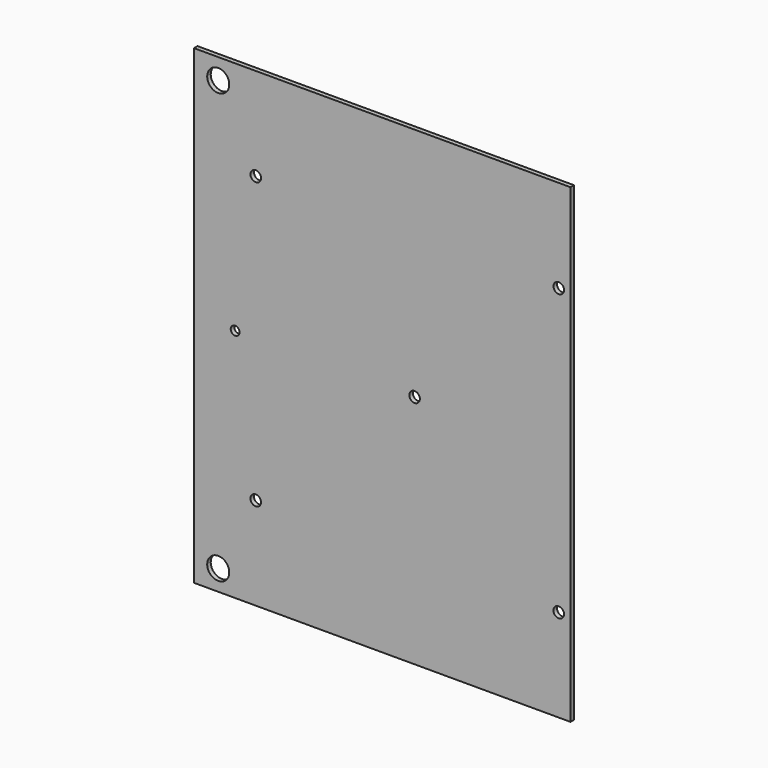
from build123d import *

# Parameters (mm, degrees)
F0_W     = 812.8
F0_H     = 1016
F1_DEPTH = 9.525
F3_D     = 47.625
F4_D     = 19.05
F5_D     = 22.86


with BuildPart() as f1:
    # F0 (on Front) → F1 (new body)
    with BuildSketch(Plane.XZ):
        with Locations((-368.4664566755, 476.7986876816)):
            Rectangle(F0_W, F0_H)
    extrude(amount=F1_DEPTH)

    # F3 (through all)
    with Locations(Plane(origin=(0, 0, 0), x_dir=(1, 0, 0), z_dir=(0, 1, 0))):
        with Locations((-722.4662566755, -940.3486876816), (-722.4662566755, -13.2486876816)):
            Hole(F3_D / 2)

    # F4 (through all)
    with Locations(Plane(origin=(0, 0, 0), x_dir=(1, 0, 0), z_dir=(0, 1, 0))):
        with Locations((-685.9664566755, -476.7986876816)):
            Hole(F4_D / 2)

    # F5 (through all)
    with Locations(Plane(origin=(0, 0, 0), x_dir=(1, 0, 0), z_dir=(0, 1, 0))):
        with Locations((-641.5164566755, -784.7736876816), (-298.6164566755, -476.7986876816), (12.5335433245, -784.7736876816), (12.5335433245, -168.8236876816), (-641.5164566755, -168.8236876816)):
            Hole(F5_D / 2)


solid = f1.part
